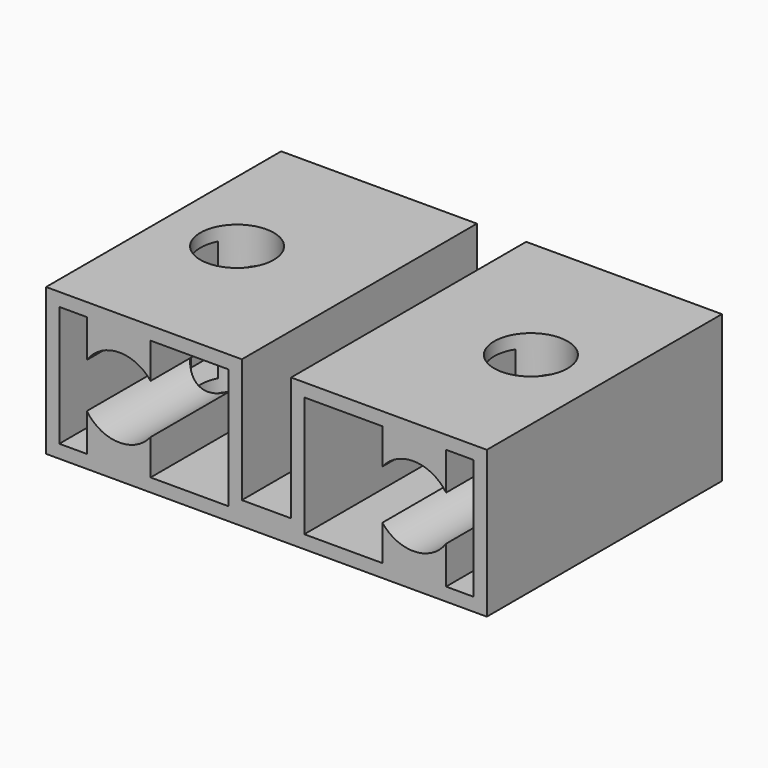
from build123d import *

# Parameters (mm, degrees)
F1_DEPTH = 16
F2_R     = 2
F3_DEPTH = 8.1


with BuildPart() as f1:
    # F0 (on Front) → F1 (new body)
    with BuildSketch(Plane.XZ):
        Polygon((-1.34, 4), (-12, 4), (-12, -4), (12, -4), (12, 4), (1.34, 4), (1.34, -2.75), (-1.34, -2.75), align=None)
        Polygon((-6.31, 3.28), (-2.06, 3.28), (-2.06, -3.28), (-6.31, -3.28), (-9.78, -3.28), (-11.28, -3.28), (-11.28, 3.28), (-9.78, 3.28), align=None, mode=Mode.SUBTRACT)
        Polygon((11.28, 3.28), (11.28, -3.28), (9.78, -3.28), (6.31, -3.28), (2.06, -3.28), (2.06, 3.28), (6.31, 3.28), (9.78, 3.28), align=None, mode=Mode.SUBTRACT)
        with BuildLine():
            Line((-6.31, 1.345177), (-6.31, 3.28))
            Line((-6.31, 3.28), (-9.78, 3.28))
            Line((-9.78, 3.28), (-9.78, 1.223601))
            ThreePointArc((-9.78, 1.223601), (-8.075632, 2.158675), (-6.31, 1.345177))
        make_face()
        with BuildLine():
            Line((-9.78, -3.28), (-6.31, -3.28))
            Line((-6.31, -3.28), (-6.31, -1.345177))
            ThreePointArc((-6.31, -1.345177), (-8.075632, -2.158675), (-9.78, -1.223601))
            Line((-9.78, -1.223601), (-9.78, -3.28))
        make_face()
        with BuildLine():
            Line((9.78, 1.223601), (9.78, 3.28))
            Line((9.78, 3.28), (6.31, 3.28))
            Line((6.31, 3.28), (6.31, 1.345177))
            ThreePointArc((6.31, 1.345177), (8.075632, 2.158675), (9.78, 1.223601))
        make_face()
        with BuildLine():
            Line((6.31, -3.28), (9.78, -3.28))
            Line((9.78, -3.28), (9.78, -1.223601))
            ThreePointArc((9.78, -1.223601), (8.075632, -2.158675), (6.31, -1.345177))
            Line((6.31, -1.345177), (6.31, -3.28))
        make_face()
    extrude(amount=F1_DEPTH)

    # F2 (on face) → F3 (cut)
    with BuildSketch(Plane.XY.offset(4)):
        with Locations((-8, -8)):
            Circle(F2_R)
        with Locations((8, -8)):
            Circle(F2_R)
    extrude(amount=-F3_DEPTH, mode=Mode.SUBTRACT)


solid = f1.part
